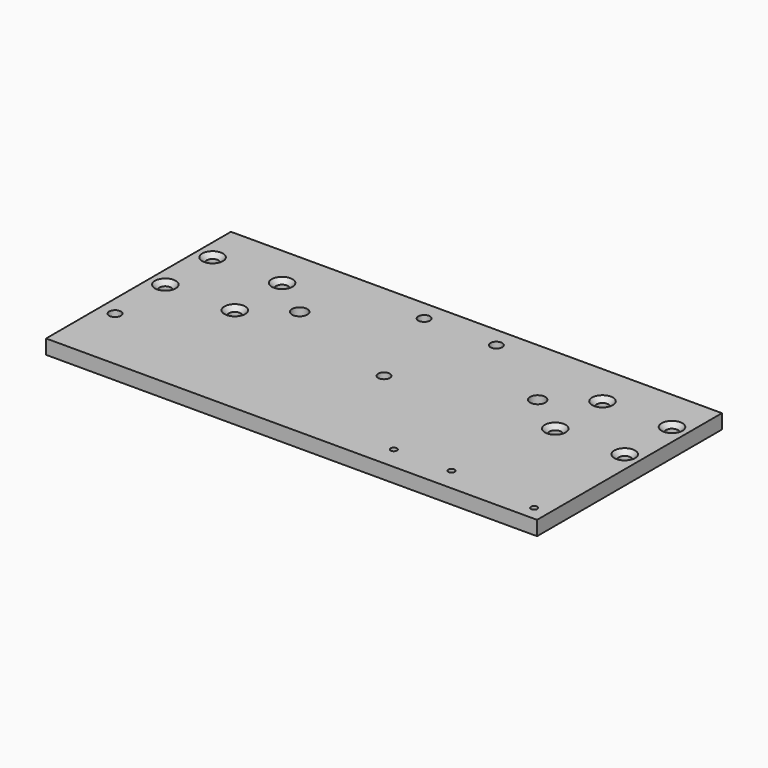
from build123d import *

# Parameters (mm, degrees)
F0_W     = 215.9
F0_H     = 101.6
F0_R     = 2.579688
F0_R_2   = 1.389063
F0_R_3   = 3.373438
F1_DEPTH = 6.35
F2_SIZE  = 1.9812


with BuildPart() as f1:
    # F0 (on Top) → F1 (new body)
    with BuildSketch(Plane.XY):
        Rectangle(F0_W, F0_H)
        with Locations((-101.0031, -21.59)):
            Circle(F0_R, mode=Mode.SUBTRACT)
        with Locations((36.83, -40.64)):
            Circle(F0_R_2, mode=Mode.SUBTRACT)
        with Locations((62.23, -40.64)):
            Circle(F0_R_2, mode=Mode.SUBTRACT)
        with Locations((101.6, -44.45)):
            Circle(F0_R_2, mode=Mode.SUBTRACT)
        Circle(F0_R, mode=Mode.SUBTRACT)
        with Locations((-101.0031, 6.0579)):
            Circle(F0_R, mode=Mode.SUBTRACT)
        with Locations((-70.4469, 6.0579)):
            Circle(F0_R, mode=Mode.SUBTRACT)
        with Locations((-52.32654, 19.05)):
            Circle(F0_R_3, mode=Mode.SUBTRACT)
        with Locations((-101.0031, 32.0421)):
            Circle(F0_R, mode=Mode.SUBTRACT)
        with Locations((-70.4469, 32.0421)):
            Circle(F0_R, mode=Mode.SUBTRACT)
        with Locations((-15.875, 41.91)):
            Circle(F0_R, mode=Mode.SUBTRACT)
        with Locations((52.32654, 19.05)):
            Circle(F0_R_3, mode=Mode.SUBTRACT)
        with Locations((70.4469, 6.0579)):
            Circle(F0_R, mode=Mode.SUBTRACT)
        with Locations((101.0031, 6.0579)):
            Circle(F0_R, mode=Mode.SUBTRACT)
        with Locations((15.875, 41.91)):
            Circle(F0_R, mode=Mode.SUBTRACT)
        with Locations((70.4469, 32.0421)):
            Circle(F0_R, mode=Mode.SUBTRACT)
        with Locations((101.0031, 32.0421)):
            Circle(F0_R, mode=Mode.SUBTRACT)
    extrude(amount=F1_DEPTH)

    # F2
    f2_edges = [f1.edges().sort_by_distance(p)[0] for p in [
        (-73.026588, 32.0421, 6.35),
        (-103.582788, 32.0421, 6.35),
        (-103.582788, 6.0579, 6.35),
        (-73.026588, 6.0579, 6.35),
        (67.867212, 32.0421, 6.35),
        (67.867212, 6.0579, 6.35),
        (98.423412, 6.0579, 6.35),
        (98.423412, 32.0421, 6.35),
    ]]
    chamfer(f2_edges, length=F2_SIZE)


solid = f1.part
